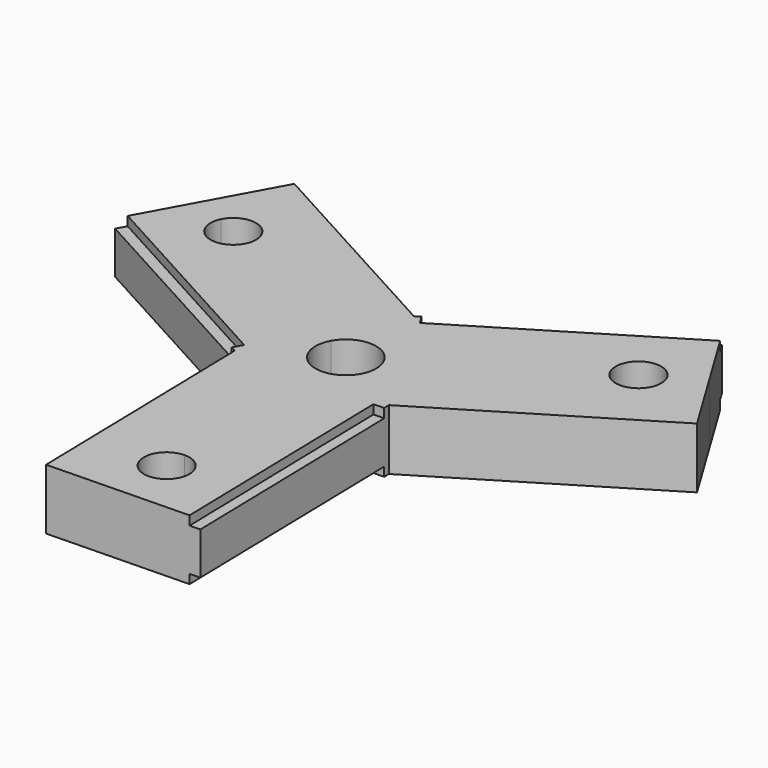
from build123d import *

# Parameters (mm, degrees)
F1_DEPTH = 20
F2_W     = 3.5
F2_H     = 3
F3_DEPTH = 78
F4_W     = 3.5
F4_H     = 3
F5_DEPTH = 78
F6_W     = 3.5
F6_H     = 3
F7_DEPTH = 78


with BuildPart() as f1:
    # F0 (on Top) → F1 (new body)
    with BuildSketch(Plane.XY):
        with BuildLine():
            Line((58.5386705788, 35.5735020327), (12.3347873053, 7.4957558301))
            Line((12.3347873053, 7.4957558301), (25.3178172443, -13.8687224833))
            Line((25.3178172443, -13.8687224833), (93.6841478472, 27.6769733213))
            Line((93.6841478472, 27.6769733213), (80.7011179083, 49.0414516348))
            Line((80.7011179083, 49.0414516348), (71.3573575668, 43.3633199961))
            ThreePointArc((71.3573575668, 43.3633199961), (72.1702047448, 41.4907764357), (72.4480140728, 39.4684110144))
            ThreePointArc((72.4480140728, 39.4684110144), (66.9703794941, 32.2462203424), (58.5386705788, 35.5735020327))
        make_face()
        with BuildLine():
            Line((-0.6482426336, 28.8602341436), (12.3347873053, 7.4957558301))
            Line((12.3347873053, 7.4957558301), (58.5386705788, 35.5735020327))
            ThreePointArc((58.5386705788, 35.5735020327), (61.0531050911, 45.8777545084), (71.3573575668, 43.3633199961))
            Line((71.3573575668, 43.3633199961), (80.7011179083, 49.0414516348))
            Line((80.7011179083, 49.0414516348), (67.7180879693, 70.4059299482))
            Line((67.7180879693, 70.4059299482), (-0.6482426336, 28.8602341436))
        make_face()
        with BuildLine():
            Line((-24.6695746107, -14.9915116603), (-12.6589086221, 6.9343612416))
            Line((-12.6589086221, 6.9343612416), (-60.0813298697, 32.9116559437))
            ThreePointArc((-60.0813298697, 32.9116559437), (-70.1179765686, 30.1888598259), (-73.2270059229, 40.1126611203))
            Line((-73.2270059229, 40.1126611203), (-82.8217019083, 45.368492405))
            Line((-82.8217019083, 45.368492405), (-94.8323678969, 23.4426195031))
            Line((-94.8323678969, 23.4426195031), (-24.6695746107, -14.9915116603))
        make_face()
        with BuildLine():
            Line((1.5386516322, -68.5018912218), (0.3241213168, -14.4301170718))
            Line((0.3241213168, -14.4301170718), (-24.6695746107, -14.9915116603))
            Line((-24.6695746107, -14.9915116603), (-22.8731119275, -94.9713386283))
            Line((-22.8731119275, -94.9713386283), (2.120584, -94.4099440398))
            Line((2.120584, -94.4099440398), (1.8754883853, -83.4981087782))
            ThreePointArc((1.8754883853, -83.4981087782), (-5.7910387695, -76.1684183766), (1.5386516322, -68.5018912218))
        make_face()
        with BuildLine():
            Line((25.3178172443, -13.8687224833), (0.3241213168, -14.4301170718))
            Line((0.3241213168, -14.4301170718), (1.5386516322, -68.5018912218))
            ThreePointArc((1.5386516322, -68.5018912218), (6.950487891, -70.6374848334), (9.2070700088, -76))
            ThreePointArc((9.2070700088, -76), (7.0695851754, -81.2434178823), (1.8754883853, -83.4981087782))
            Line((1.8754883853, -83.4981087782), (2.120584, -94.4099440398))
            Line((2.120584, -94.4099440398), (27.1142799275, -93.8485494513))
            Line((27.1142799275, -93.8485494513), (25.3178172443, -13.8687224833))
        make_face()
        with BuildLine():
            Line((-60.0813298697, 32.9116559437), (-12.6589086221, 6.9343612416))
            Line((-12.6589086221, 6.9343612416), (-0.6482426336, 28.8602341436))
            Line((-0.6482426336, 28.8602341436), (-70.8110359198, 67.2943653069))
            Line((-70.8110359198, 67.2943653069), (-82.8217019083, 45.368492405))
            Line((-82.8217019083, 45.368492405), (-73.2270059229, 40.1126611203))
            ThreePointArc((-73.2270059229, 40.1126611203), (-64.7960153912, 44.0670230084), (-59.014776772, 36.7666216964))
            ThreePointArc((-59.014776772, 36.7666216964), (-59.2863311657, 34.7667281702), (-60.0813298697, 32.9116559437))
        make_face()
        with BuildLine():
            Line((0.3241213168, -14.4301170718), (0.2245578354, -9.997478371))
            ThreePointArc((0.2245578354, -9.997478371), (-8.5457913254, -5.1932119756), (-8.7703491608, 4.8042663954))
            Line((-8.7703491608, 4.8042663954), (-12.6589086221, 6.9343612416))
            Line((-12.6589086221, 6.9343612416), (-24.6695746107, -14.9915116603))
            Line((-24.6695746107, -14.9915116603), (0.3241213168, -14.4301170718))
        make_face()
        with BuildLine():
            ThreePointArc((-8.7703491608, 4.8042663954), (-0.2245578354, 9.997478371), (8.5457913254, 5.1932119756))
            Line((8.5457913254, 5.1932119756), (12.3347873053, 7.4957558301))
            Line((12.3347873053, 7.4957558301), (-0.6482426336, 28.8602341436))
            Line((-0.6482426336, 28.8602341436), (-12.6589086221, 6.9343612416))
            Line((-12.6589086221, 6.9343612416), (-8.7703491608, 4.8042663954))
        make_face()
        with BuildLine():
            ThreePointArc((8.5457913254, 5.1932119756), (9.6295875627, 2.6964872284), (10, 0))
            ThreePointArc((10, 0), (7.1500202221, -6.991223843), (0.2245578354, -9.997478371))
            Line((0.2245578354, -9.997478371), (0.3241213168, -14.4301170718))
            Line((0.3241213168, -14.4301170718), (25.3178172443, -13.8687224833))
            Line((25.3178172443, -13.8687224833), (12.3347873053, 7.4957558301))
            Line((12.3347873053, 7.4957558301), (8.5457913254, 5.1932119756))
        make_face()
    extrude(amount=F1_DEPTH)

    # F2 (on face) → F3 (cut)
    with BuildSketch(Plane(origin=(-82.8217019083, 45.368492405, 0), x_dir=(-0.4804266395, -0.8770349161, 0), z_dir=(-0.8770349161, 0.4804266395, 0))):
        with Locations((23.25, 18.5)):
            Rectangle(F2_W, F2_H)
        with Locations((23.25, 1.5)):
            Rectangle(F2_W, F2_H)
    extrude(amount=-F3_DEPTH, mode=Mode.SUBTRACT)

    # F4 (on face) → F5 (cut)
    with BuildSketch(Plane(origin=(2.120584, -94.4099440398, 0), x_dir=(0.9997478371, 0.0224557835, 0), z_dir=(0.0224557835, -0.9997478371, 0))):
        with Locations((23.25, 18.5)):
            Rectangle(F4_W, F4_H)
        with Locations((23.25, 1.5)):
            Rectangle(F4_W, F4_H)
    extrude(amount=-F5_DEPTH, mode=Mode.SUBTRACT)

    # F6 (on face) → F7 (cut)
    with BuildSketch(Plane(origin=(80.7011179083, 49.0414516348, 0), x_dir=(-0.5193211976, 0.8545791325, 0), z_dir=(0.8545791325, 0.5193211976, 0))):
        with Locations((23.25, 18.5)):
            Rectangle(F6_W, F6_H)
        with Locations((23.25, 1.5)):
            Rectangle(F6_W, F6_H)
    extrude(amount=-F7_DEPTH, mode=Mode.SUBTRACT)


solid = f1.part
